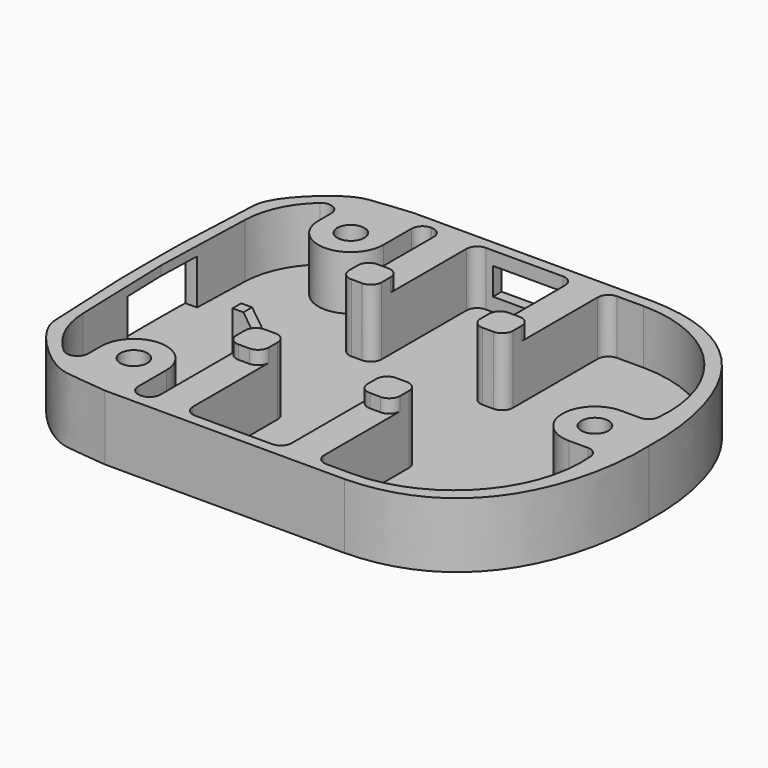
from build123d import *

# Parameters (mm, degrees)
PAD005_DEPTH    = 12
SKETCH025_R     = 2.5
POCKET019_DEPTH = 10
POCKET020_DEPTH = 1
SKETCH027_W     = 8
SKETCH027_H     = 8.3
POCKET021_DEPTH = 5
PAD006_DEPTH    = 2.5
SKETCH029_W     = 12.5
SKETCH029_H     = 5
POCKET022_DEPTH = 2


with BuildPart() as part:
    # Sketch024 → Pad005 (new body)
    with BuildSketch(Plane.XY):
        with BuildLine():
            ThreePointArc((0, 0), (0.0125001507, 3.6000868045), (0.05, 7.2))
            Line((0.05, 7.2), (0.75, 22.55))
            add(Edge.make_bspline(
                [(0.75, 22.55), (0.790433, 24.50555), (2.8995135699, 28.3383927733), (10.6468681476, 35.231617337), (14.5053016695, 34.8194742751), (20.1, 35.5)],
                knots=[0, 0, 0, 0, 0.3333333333, 0.6666666667, 1, 1, 1, 1], degree=3))
            Line((20.1, 35.5), (64.2, 35.5))
            add(Edge.make_bspline(
                [(92, 0), (92.391037, 11.810127), (88.126587, 35.076866), (64.2, 35.5)],
                knots=[0, 0, 0, 0, 1, 1, 1, 1], degree=3))
            Line((92, 0), (0, 0))
        make_face()
    extrude(amount=PAD005_DEPTH)

    # Sketch025 (on Face8 of Pad005) → Pocket019 (cut)
    with BuildSketch(Plane.XY.offset(12)):
        with Locations((17, 25)):
            Circle(SKETCH025_R)
        with BuildLine():
            ThreePointArc((84.5, 0), (82, 2.5), (79.5, 0))
            Line((79.5, 0), (84.5, 0))
        make_face()
        with BuildLine():
            Line((2, 0), (2.5758571429, 18.6857169977))
            ThreePointArc((7.6817324497, 29.5040514173), (4.0036624605, 24.625907301), (2.5758571429, 18.6857169977))
            ThreePointArc((11, 28), (9.8256709089, 29.8216112511), (7.6817324497, 29.5040514173))
            Line((11, 25), (11, 28))
            ThreePointArc((11, 25), (17, 19), (23, 25))
            Line((23, 25), (23, 31.5))
            ThreePointArc((25, 33.5), (23.5857864376, 32.9142135624), (23, 31.5))
            Line((25.1, 33.5), (25, 33.5))
            ThreePointArc((27.1, 31.5), (26.5142135624, 32.9142135624), (25.1, 33.5))
            Line((27.1, 12), (27.1, 31.5))
            ThreePointArc((27.1, 12), (27.6857864376, 10.5857864376), (29.1, 10))
            Line((31.1, 10), (29.1, 10))
            ThreePointArc((31.1, 10), (32.5142135624, 10.5857864376), (33.1, 12))
            Line((33.1, 31.5), (33.1, 12))
            ThreePointArc((35.1, 33.5), (33.6857864376, 32.9142135624), (33.1, 31.5))
            Line((49.3, 33.5), (35.1, 33.5))
            ThreePointArc((51.3, 31.5), (50.7142135624, 32.9142135624), (49.3, 33.5))
            Line((51.3, 12), (51.3, 31.5))
            ThreePointArc((51.3, 12), (51.8857864376, 10.5857864376), (53.3, 10))
            Line((55.3, 10), (53.3, 10))
            ThreePointArc((55.3, 10), (56.7142135624, 10.5857864376), (57.3, 12))
            Line((57.3, 31.4999999999), (57.3, 12))
            ThreePointArc((59.3, 33.4999999999), (57.8857864376, 32.9142135623), (57.3, 31.4999999999))
            Line((59.3, 33.5), (64.2, 33.5))
            ThreePointArc((87.491325765, 7.8139309331), (81.5019467421, 25.7859071373), (64.2, 33.5))
            ThreePointArc((85.5, 6), (86.8468225322, 6.521463877), (87.491325765, 7.8139309331))
            Line((82, 6), (85.5, 6))
            ThreePointArc((82, 6), (77.7573593129, 4.2426406871), (76, 0))
            Line((22, 0), (76, 0))
            Line((22, 1), (22, 0))
            Line((16, 1), (22, 1))
            Line((16, 0), (16, 1))
            Line((2, 0), (16, 0))
        make_face()
    extrude(amount=-POCKET019_DEPTH, mode=Mode.SUBTRACT)

    # Sketch026 (on Face3 of Pocket019) → Pocket020 (cut)
    with BuildSketch(Plane.XZ):
        Polygon((22, 12), (22, 4), (18, 10), (16, 10), (16, 12), align=None)
    extrude(amount=-POCKET020_DEPTH, mode=Mode.SUBTRACT)

    # Sketch027 → Pocket021 (cut)
    with BuildSketch(Plane.YZ):
        with Locations((4, 6.15)):
            Rectangle(SKETCH027_W, SKETCH027_H)
    extrude(amount=POCKET021_DEPTH, mode=Mode.SUBTRACT)

    # Sketch028 (on Face8 of Pocket021) → Pad006 (join)
    with BuildSketch(Plane.XY.offset(12)):
        with BuildLine():
            ThreePointArc((31.1, 10), (32.5142135624, 10.5857864376), (33.1, 12))
            Line((33.1, 12), (33.1, 14))
            ThreePointArc((33.1, 14), (32.5142135624, 15.4142135624), (31.1, 16))
            Line((29.1, 16), (31.1, 16))
            ThreePointArc((29.1, 16), (27.6857864376, 15.4142135624), (27.1, 14))
            Line((27.1, 12), (27.1, 14))
            ThreePointArc((27.1, 12), (27.6857864376, 10.5857864376), (29.1, 10))
            Line((29.1, 10), (31.1, 10))
        make_face()
        with BuildLine():
            ThreePointArc((51.3, 12), (51.8857864376, 10.5857864376), (53.3, 10))
            Line((53.3, 10), (55.3, 10))
            ThreePointArc((55.3, 10), (56.7142135624, 10.5857864376), (57.3, 12))
            Line((57.3, 12), (57.3, 14))
            ThreePointArc((57.3, 14), (56.7142135624, 15.4142135624), (55.3, 16))
            Line((53.3, 16), (55.3, 16))
            ThreePointArc((53.3, 16), (51.8857864376, 15.4142135624), (51.3, 14))
            Line((51.3, 12), (51.3, 14))
        make_face()
    extrude(amount=PAD006_DEPTH)

    # Mirrored002: part across XZ


with BuildPart() as part_1:
    add(part.part)
    add(part.part.mirror(Plane.XZ))

    # Sketch029 (on Face33 of Mirrored002) → Pocket022 (cut)
    with BuildSketch(Plane(origin=(0, 35.5, 0), x_dir=(-1, 0, 0), z_dir=(0, 1, 0))):
        with Locations((-42.65, 7)):
            Rectangle(SKETCH029_W, SKETCH029_H)
    extrude(amount=-POCKET022_DEPTH, mode=Mode.SUBTRACT)


with BuildPart() as part_2:
    # Body004 placement: moved
    add(part_1.part.moved(Location((0, 0, -12))))


solid = part_2.part
